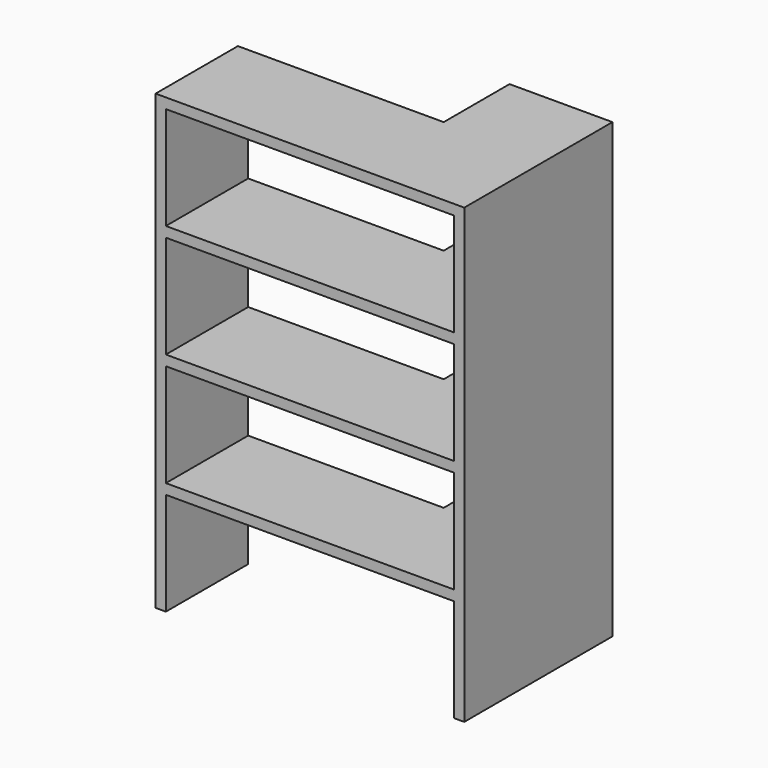
from build123d import *

# Parameters (mm, degrees)
BOX3529_W        = 1400
BOX3529_H        = 850
BOX3529_DEPTH    = 500
ARRAY281_Z_COUNT = 4
ARRAY281_Z_PITCH = 550
BOX3527_W        = 500
BOX3527_H        = 400
BOX3527_DEPTH    = 2200
BOX3528_W        = 1500
BOX3528_H        = 500
BOX3528_DEPTH    = 2200


with BuildPart() as array281:
    # Box3529 → Box3529 (new body)
    with BuildSketch(Plane(origin=(1550, -300, 0), x_dir=(1, 0, 0), z_dir=(0, 0, 1))):
        with Locations((700, 425)):
            Rectangle(BOX3529_W, BOX3529_H)
    extrude(amount=BOX3529_DEPTH)

    # Array281 Z: Array281 ×4


with BuildPart() as array281_1:
    add(array281.part)
    with Locations(*[(0, 0, i * ARRAY281_Z_PITCH) for i in range(1, ARRAY281_Z_COUNT)]):
        add(array281.part)


with BuildPart() as box3527:
    # Box3527 → Box3527 (new body)
    with BuildSketch(Plane(origin=(2500, 200, 0), x_dir=(1, 0, 0), z_dir=(0, 0, 1))):
        with Locations((250, 200)):
            Rectangle(BOX3527_W, BOX3527_H)
    extrude(amount=BOX3527_DEPTH)


with BuildPart() as cut003:
    # Box3528 → Box3528 (new body)
    with BuildSketch(Plane(origin=(1500, -300, 0), x_dir=(1, 0, 0), z_dir=(0, 0, 1))):
        with Locations((750, 250)):
            Rectangle(BOX3528_W, BOX3528_H)
    extrude(amount=BOX3528_DEPTH)

    # Fusion015: union Box3527
    add(box3527.part)

    # Cut003: cut Array281
    add(array281_1.part, mode=Mode.SUBTRACT)


solid = cut003.part
